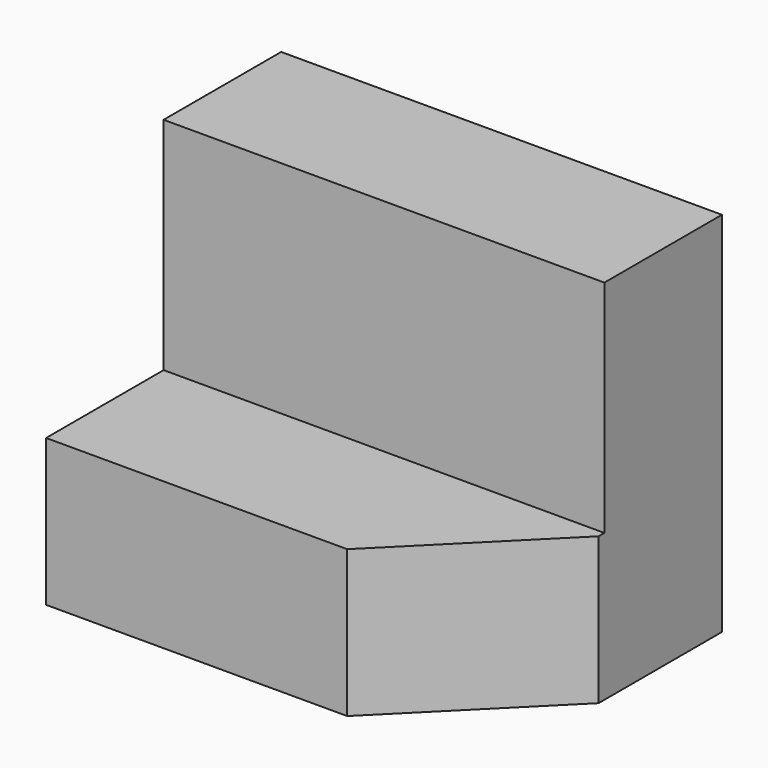
from build123d import *

# Parameters (mm, degrees)
F1_DEPTH = 38.1
F3_DEPTH = 25.4


with BuildPart() as f1:
    # F0 (on Right) → F1 (new body)
    with BuildSketch(Plane.YZ):
        Polygon((0, 12.7), (0, 0), (25.4, 0), (25.4, 31.75), (12.7, 31.75), (12.7, 12.7), align=None)
    extrude(amount=F1_DEPTH)

    # F2 (on Top) → F3 (cut)
    with BuildSketch(Plane.XY):
        Polygon((26.027159, 0), (38.727159, 0), (38.727159, 12.7), align=None)
    extrude(amount=F3_DEPTH, mode=Mode.SUBTRACT)


solid = f1.part
